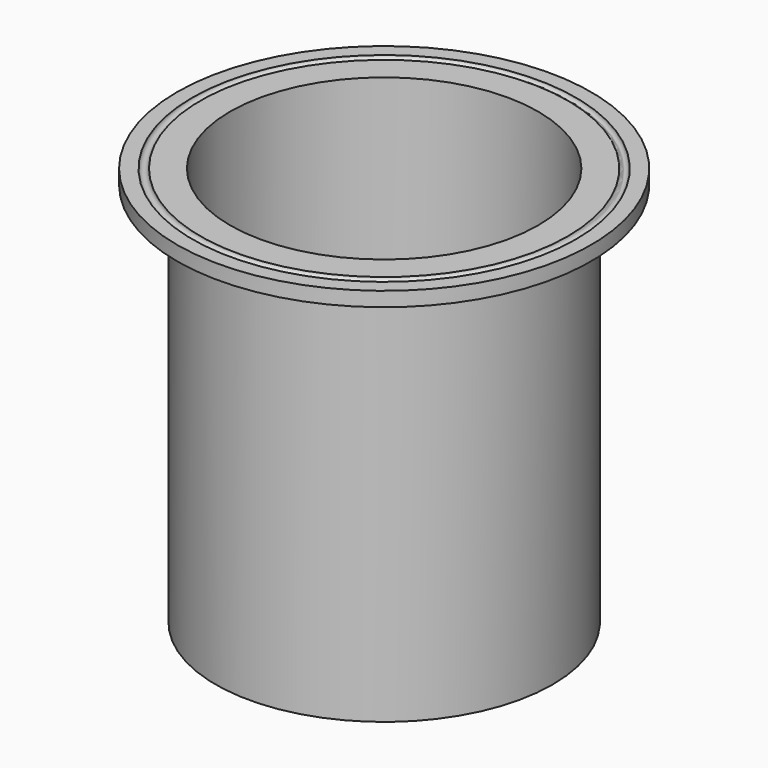
from build123d import *


with BuildPart() as f1:
    # F0 (on Front) → F1 (revolve)
    with BuildSketch(Plane.XZ):
        Polygon((0, -212.00102), (0, -202.47602), (-101.6, -202.47602), (-101.6, 51.52398), (-136.525, 51.52398), (-136.525, 41.99898), (-111.125, 41.99898), (-111.125, -212.00102), align=None)
    revolve(axis=Axis((0, 0, -78.97687), (0, 0, -1)))

    # F4: sweep along a path in F2
    with BuildLine(Plane.XY.offset(51.52398)) as f4_path:
        CenterArc((0, 0), 123.825, 0, 360)
    # F3 (on Front) → F4 (sweep, cut)
    with BuildSketch(Plane.XZ):
        with BuildLine():
            Line((-121.1326, 51.52398), (-126.5174, 51.52398))
            ThreePointArc((-126.5174, 51.52398), (-123.825, 48.83158), (-121.1326, 51.52398))
        make_face()
    sweep(path=f4_path.line, mode=Mode.SUBTRACT)


solid = f1.part
